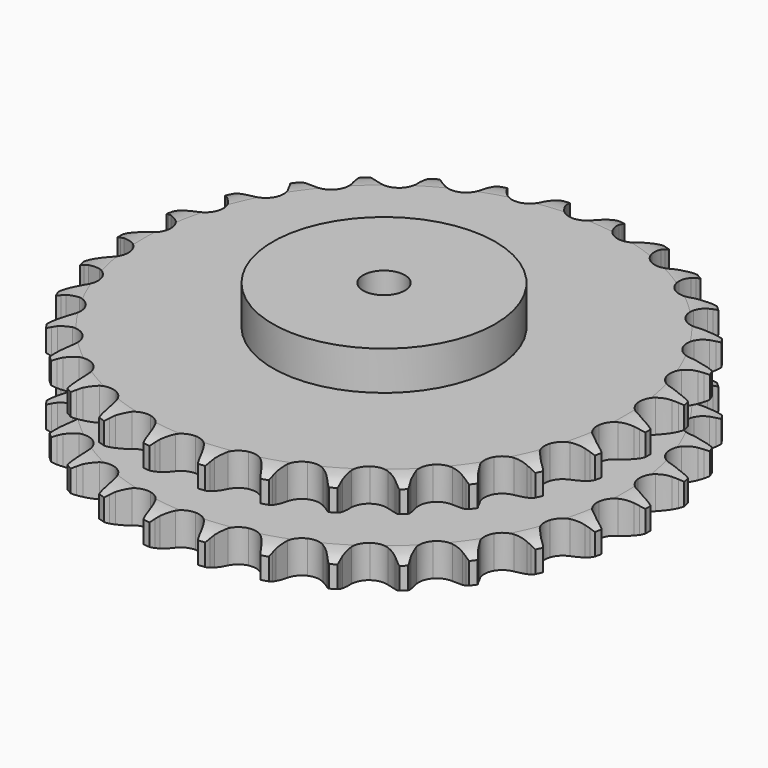
from build123d import *

# Parameters (mm, degrees)
PAD_DEPTH         = 72
SKETCH001_R       = 80
PAD001_DEPTH      = 100
SKETCH002_R       = 15
POCKET_DEPTH      = 0.001
POCKET_DEPTH_BACK = 100.001


with BuildPart() as part:
    # Sprocket → Pad (new body)
    with BuildSketch(Plane.XY):
        with BuildLine():
            ThreePointArc((-20.26254, 192.785193), (-17.773616, 189.567988), (-15.959522, 185.927353))
            Line((-15.959522, 185.927353), (-14.720942, 182.678163))
            ThreePointArc((-14.720942, 182.678163), (-12.759195, 178.45194), (-10.223812, 174.542816))
            ThreePointArc((-10.223812, 174.542816), (-5.712046, 170.790419), (0, 169.445411))
            ThreePointArc((0, 169.445411), (5.712046, 170.790419), (10.223812, 174.542816))
            ThreePointArc((10.223812, 174.542816), (12.759195, 178.45194), (14.720942, 182.678163))
            Line((14.720942, 182.678163), (15.959522, 185.927353))
            ThreePointArc((15.959522, 185.927353), (17.773616, 189.567988), (20.26254, 192.785193))
            ThreePointArc((20.26254, 192.785193), (22.028181, 189.120815), (23.045702, 185.182566))
            Line((23.045702, 185.182566), (23.581671, 181.746862))
            ThreePointArc((23.581671, 181.746862), (24.621869, 177.205122), (26.289094, 172.854287))
            ThreePointArc((26.289094, 172.854287), (29.922101, 168.24584), (35.229682, 165.742622))
            ThreePointArc((35.229682, 165.742622), (41.096549, 165.870638), (46.289889, 168.602986))
            Line((46.289889, 168.602986), (52.38018, 175.62555))
            ThreePointArc((52.38018, 175.62555), (53.285355, 177.110668), (54.267238, 178.546223))
            ThreePointArc((54.267238, 178.546223), (56.79862, 181.73013), (59.902051, 184.359555))
            ThreePointArc((59.902051, 184.359555), (60.867241, 180.408155), (61.043719, 176.344411))
            Line((61.043719, 176.344411), (60.853653, 172.872352))
            ThreePointArc((60.853653, 172.872352), (60.926838, 168.213591), (61.653042, 163.611196))
            ThreePointArc((61.653042, 163.611196), (64.248508, 158.34811), (68.919658, 154.796086))
            ThreePointArc((68.919658, 154.796086), (74.684935, 153.701513), (80.332876, 155.294397))
            Line((80.332876, 155.294397), (87.750152, 160.897259))
            ThreePointArc((87.750152, 160.897259), (88.94432, 162.161727), (90.203216, 163.361766))
            ThreePointArc((90.203216, 163.361766), (93.341253, 165.949793), (96.923554, 167.87652))
            ThreePointArc((96.923554, 167.87652), (97.04611, 163.810793), (96.373832, 159.79916))
            Line((96.373832, 159.79916), (95.466037, 156.442491))
            ThreePointArc((95.466037, 156.442491), (94.569013, 151.870318), (94.322455, 147.21751))
            ThreePointArc((94.322455, 147.21751), (95.766947, 141.529808), (99.597514, 137.084217))
            ThreePointArc((99.597514, 137.084217), (105.009232, 134.814895), (110.864931, 135.198698))
            Line((110.864931, 135.198698), (119.285022, 139.136985))
            ThreePointArc((119.285022, 139.136985), (120.715992, 140.12554), (122.196881, 141.037617))
            ThreePointArc((122.196881, 141.037617), (125.804425, 142.916655), (129.709033, 144.056475))
            ThreePointArc((129.709033, 144.056475), (128.983599, 140.054113), (127.491946, 136.269919))
            Line((127.491946, 136.269919), (125.906098, 133.175342))
            ThreePointArc((125.906098, 133.175342), (124.078068, 128.889584), (122.869525, 124.389713))
            ThreePointArc((122.869525, 124.389713), (123.099912, 118.525974), (125.92248, 113.381111))
            ThreePointArc((125.92248, 113.381111), (130.744121, 110.036219), (136.551656, 109.194167))
            Line((136.551656, 109.194167), (145.606564, 111.295758))
            ThreePointArc((145.606564, 111.295758), (147.211796, 111.965195), (148.849955, 112.549446))
            ThreePointArc((148.849955, 112.549446), (152.76934, 113.637372), (156.825605, 113.940471))
            ThreePointArc((156.825605, 113.940471), (155.283885, 110.176397), (153.03805, 106.785028))
            Line((153.03805, 106.785028), (150.843458, 104.087791))
            ThreePointArc((150.843458, 104.087791), (148.164316, 100.275757), (146.046606, 96.125489))
            ThreePointArc((146.046606, 96.125489), (145.052819, 90.341987), (146.744031, 84.722706))
            ThreePointArc((146.744031, 84.722706), (150.764865, 80.448433), (156.270419, 78.417327))
            Line((156.270419, 78.417327), (165.564401, 78.590371))
            ThreePointArc((165.564401, 78.590371), (167.273738, 78.911433), (168.997572, 79.142325))
            ThreePointArc((168.997572, 79.142325), (173.057501, 79.391591), (177.088145, 78.844722))
            ThreePointArc((177.088145, 78.844722), (174.797521, 75.483443), (171.895657, 72.633119))
            Line((171.895657, 72.633119), (169.188236, 70.451105))
            ThreePointArc((169.188236, 70.451105), (165.775072, 67.279397), (162.840751, 63.66012))
            ThreePointArc((162.840751, 63.66012), (160.666222, 58.209621), (161.152162, 52.361512))
            ThreePointArc((161.152162, 52.361512), (164.19646, 47.344664), (169.159414, 44.213273))
            Line((169.159414, 44.213273), (178.286278, 42.450209))
            ThreePointArc((178.286278, 42.450209), (180.025015, 42.408863), (181.759184, 42.276304))
            ThreePointArc((181.759184, 42.276304), (185.782219, 41.676017), (189.611084, 40.30308))
            ThreePointArc((189.611084, 40.30308), (186.671666, 37.4915), (183.240599, 35.306795))
            Line((183.240599, 35.306795), (180.138675, 33.735367))
            ThreePointArc((180.138675, 33.735367), (176.140662, 31.342606), (172.517973, 28.412498))
            ThreePointArc((172.517973, 28.412498), (169.25774, 23.533215), (168.517171, 17.711868))
            ThreePointArc((168.517171, 17.711868), (170.451883, 12.171705), (174.655331, 8.076887))
            Line((174.655331, 8.076887), (183.21619, 4.454768))
            ThreePointArc((183.21619, 4.454768), (184.908335, 4.052823), (186.577048, 3.562606))
            ThreePointArc((186.577048, 3.562606), (190.387363, 2.139), (193.847108, 0))
            ThreePointArc((193.847108, 0), (190.387363, -2.139), (186.577048, -3.562606))
            Line((186.577048, -3.562606), (183.21619, -4.454768))
            ThreePointArc((183.21619, -4.454768), (178.80806, -5.964008), (174.655331, -8.076887))
            ThreePointArc((174.655331, -8.076887), (170.451883, -12.171705), (168.517171, -17.711868))
            ThreePointArc((168.517171, -17.711868), (169.25774, -23.533215), (172.517973, -28.412498))
            Line((172.517973, -28.412498), (180.138675, -33.735367))
            ThreePointArc((180.138675, -33.735367), (181.710273, -34.480346), (183.240599, -35.306795))
            ThreePointArc((183.240599, -35.306795), (186.671666, -37.4915), (189.611084, -40.30308))
            ThreePointArc((189.611084, -40.30308), (185.782219, -41.676017), (181.759184, -42.276304))
            Line((181.759184, -42.276304), (178.286278, -42.450209))
            ThreePointArc((178.286278, -42.450209), (173.660688, -43.009967), (169.159414, -44.213273))
            ThreePointArc((169.159414, -44.213273), (164.19646, -47.344664), (161.152162, -52.361512))
            ThreePointArc((161.152162, -52.361512), (160.666222, -58.209621), (162.840751, -63.66012))
            Line((162.840751, -63.66012), (169.188236, -70.451105))
            ThreePointArc((169.188236, -70.451105), (170.570601, -71.506558), (171.895657, -72.633119))
            ThreePointArc((171.895657, -72.633119), (174.797521, -75.483443), (177.088145, -78.844722))
            ThreePointArc((177.088145, -78.844722), (173.057501, -79.391591), (168.997572, -79.142325))
            Line((168.997572, -79.142325), (165.564401, -78.590371))
            ThreePointArc((165.564401, -78.590371), (160.92351, -78.176183), (156.270419, -78.417327))
            ThreePointArc((156.270419, -78.417327), (150.764865, -80.448433), (146.744031, -84.722706))
            ThreePointArc((146.744031, -84.722706), (145.052819, -90.341987), (146.046606, -96.125489))
            Line((146.046606, -96.125489), (150.843458, -104.087791))
            ThreePointArc((150.843458, -104.087791), (151.976175, -105.40759), (153.03805, -106.785028))
            ThreePointArc((153.03805, -106.785028), (155.283885, -110.176397), (156.825605, -113.940471))
            ThreePointArc((156.825605, -113.940471), (152.76934, -113.637372), (148.849955, -112.549446))
            Line((148.849955, -112.549446), (145.606564, -111.295758))
            ThreePointArc((145.606564, -111.295758), (141.153203, -109.925725), (136.551656, -109.194167))
            ThreePointArc((136.551656, -109.194167), (130.744121, -110.036219), (125.92248, -113.381111))
            ThreePointArc((125.92248, -113.381111), (123.099912, -118.525974), (122.869525, -124.389713))
            Line((122.869525, -124.389713), (125.906098, -133.175342))
            ThreePointArc((125.906098, -133.175342), (126.73966, -134.701805), (127.491946, -136.269919))
            ThreePointArc((127.491946, -136.269919), (128.983599, -140.054113), (129.709033, -144.056475))
            ThreePointArc((129.709033, -144.056475), (125.804425, -142.916655), (122.196881, -141.037617))
            Line((122.196881, -141.037617), (119.285022, -139.136985))
            ThreePointArc((119.285022, -139.136985), (115.213824, -136.870985), (110.864931, -135.198698))
            ThreePointArc((110.864931, -135.198698), (105.009232, -134.814895), (99.597514, -137.084217))
            ThreePointArc((99.597514, -137.084217), (95.766947, -141.529808), (94.322455, -147.21751))
            Line((94.322455, -147.21751), (95.466037, -156.442491))
            ThreePointArc((95.466037, -156.442491), (95.964015, -158.108904), (96.373832, -159.79916))
            ThreePointArc((96.373832, -159.79916), (97.04611, -163.810793), (96.923554, -167.87652))
            ThreePointArc((96.923554, -167.87652), (93.341253, -165.949793), (90.203216, -163.361766))
            Line((90.203216, -163.361766), (87.750152, -160.897259))
            ThreePointArc((87.750152, -160.897259), (84.239047, -157.834327), (80.332876, -155.294397))
            ThreePointArc((80.332876, -155.294397), (74.684935, -153.701513), (68.919658, -154.796086))
            ThreePointArc((68.919658, -154.796086), (64.248508, -158.34811), (61.653042, -163.611196))
            Line((61.653042, -163.611196), (60.853653, -172.872352))
            ThreePointArc((60.853653, -172.872352), (60.994281, -174.605886), (61.043719, -176.344411))
            ThreePointArc((61.043719, -176.344411), (60.867241, -180.408155), (59.902051, -184.359555))
            ThreePointArc((59.902051, -184.359555), (56.79862, -181.73013), (54.267238, -178.546223))
            Line((54.267238, -178.546223), (52.38018, -175.62555))
            ThreePointArc((52.38018, -175.62555), (49.58262, -171.899551), (46.289889, -168.602986))
            ThreePointArc((46.289889, -168.602986), (41.096549, -165.870638), (35.229682, -165.742622))
            ThreePointArc((35.229682, -165.742622), (29.922101, -168.24584), (26.289094, -172.854287))
            Line((26.289094, -172.854287), (23.581671, -181.746862))
            ThreePointArc((23.581671, -181.746862), (23.358805, -183.471752), (23.045702, -185.182566))
            ThreePointArc((23.045702, -185.182566), (22.028181, -189.120815), (20.26254, -192.785193))
            ThreePointArc((20.26254, -192.785193), (17.773616, -189.567988), (15.959522, -185.927353))
            Line((15.959522, -185.927353), (14.720942, -182.678163))
            ThreePointArc((14.720942, -182.678163), (12.759195, -178.45194), (10.223812, -174.542816))
            ThreePointArc((10.223812, -174.542816), (5.712046, -170.790419), (0, -169.445411))
            ThreePointArc((0, -169.445411), (-5.712046, -170.790419), (-10.223812, -174.542816))
            Line((-10.223812, -174.542816), (-14.720942, -182.678163))
            ThreePointArc((-14.720942, -182.678163), (-15.297563, -184.319023), (-15.959522, -185.927353))
            ThreePointArc((-15.959522, -185.927353), (-17.773616, -189.567988), (-20.26254, -192.785193))
            ThreePointArc((-20.26254, -192.785193), (-22.028181, -189.120815), (-23.045702, -185.182566))
            Line((-23.045702, -185.182566), (-23.581671, -181.746862))
            ThreePointArc((-23.581671, -181.746862), (-24.621869, -177.205122), (-26.289094, -172.854287))
            ThreePointArc((-26.289094, -172.854287), (-29.922101, -168.24584), (-35.229682, -165.742622))
            ThreePointArc((-35.229682, -165.742622), (-41.096549, -165.870638), (-46.289889, -168.602986))
            Line((-46.289889, -168.602986), (-52.38018, -175.62555))
            ThreePointArc((-52.38018, -175.62555), (-53.285355, -177.110668), (-54.267238, -178.546223))
            ThreePointArc((-54.267238, -178.546223), (-56.79862, -181.73013), (-59.902051, -184.359555))
            ThreePointArc((-59.902051, -184.359555), (-60.867241, -180.408155), (-61.043719, -176.344411))
            Line((-61.043719, -176.344411), (-60.853653, -172.872352))
            ThreePointArc((-60.853653, -172.872352), (-60.926838, -168.213591), (-61.653042, -163.611196))
            ThreePointArc((-61.653042, -163.611196), (-64.248508, -158.34811), (-68.919658, -154.796086))
            ThreePointArc((-68.919658, -154.796086), (-74.684935, -153.701513), (-80.332876, -155.294397))
            Line((-80.332876, -155.294397), (-87.750152, -160.897259))
            ThreePointArc((-87.750152, -160.897259), (-88.94432, -162.161727), (-90.203216, -163.361766))
            ThreePointArc((-90.203216, -163.361766), (-93.341253, -165.949793), (-96.923554, -167.87652))
            ThreePointArc((-96.923554, -167.87652), (-97.04611, -163.810793), (-96.373832, -159.79916))
            Line((-96.373832, -159.79916), (-95.466037, -156.442491))
            ThreePointArc((-95.466037, -156.442491), (-94.569013, -151.870318), (-94.322455, -147.21751))
            ThreePointArc((-94.322455, -147.21751), (-95.766947, -141.529808), (-99.597514, -137.084217))
            ThreePointArc((-99.597514, -137.084217), (-105.009232, -134.814895), (-110.864931, -135.198698))
            Line((-110.864931, -135.198698), (-119.285022, -139.136985))
            ThreePointArc((-119.285022, -139.136985), (-120.715992, -140.12554), (-122.196881, -141.037617))
            ThreePointArc((-122.196881, -141.037617), (-125.804425, -142.916655), (-129.709033, -144.056475))
            ThreePointArc((-129.709033, -144.056475), (-128.983599, -140.054113), (-127.491946, -136.269919))
            Line((-127.491946, -136.269919), (-125.906098, -133.175342))
            ThreePointArc((-125.906098, -133.175342), (-124.078068, -128.889584), (-122.869525, -124.389713))
            ThreePointArc((-122.869525, -124.389713), (-123.099912, -118.525974), (-125.92248, -113.381111))
            ThreePointArc((-125.92248, -113.381111), (-130.744121, -110.036219), (-136.551656, -109.194167))
            Line((-136.551656, -109.194167), (-145.606564, -111.295758))
            ThreePointArc((-145.606564, -111.295758), (-147.211796, -111.965195), (-148.849955, -112.549446))
            ThreePointArc((-148.849955, -112.549446), (-152.76934, -113.637372), (-156.825605, -113.940471))
            ThreePointArc((-156.825605, -113.940471), (-155.283885, -110.176397), (-153.03805, -106.785028))
            Line((-153.03805, -106.785028), (-150.843458, -104.087791))
            ThreePointArc((-150.843458, -104.087791), (-148.164316, -100.275757), (-146.046606, -96.125489))
            ThreePointArc((-146.046606, -96.125489), (-145.052819, -90.341987), (-146.744031, -84.722706))
            ThreePointArc((-146.744031, -84.722706), (-150.764865, -80.448433), (-156.270419, -78.417327))
            Line((-156.270419, -78.417327), (-165.564401, -78.590371))
            ThreePointArc((-165.564401, -78.590371), (-167.273738, -78.911433), (-168.997572, -79.142325))
            ThreePointArc((-168.997572, -79.142325), (-173.057501, -79.391591), (-177.088145, -78.844722))
            ThreePointArc((-177.088145, -78.844722), (-174.797521, -75.483443), (-171.895657, -72.633119))
            Line((-171.895657, -72.633119), (-169.188236, -70.451105))
            ThreePointArc((-169.188236, -70.451105), (-165.775072, -67.279397), (-162.840751, -63.66012))
            ThreePointArc((-162.840751, -63.66012), (-160.666222, -58.209621), (-161.152162, -52.361512))
            ThreePointArc((-161.152162, -52.361512), (-164.19646, -47.344664), (-169.159414, -44.213273))
            Line((-169.159414, -44.213273), (-178.286278, -42.450209))
            ThreePointArc((-178.286278, -42.450209), (-180.025015, -42.408863), (-181.759184, -42.276304))
            ThreePointArc((-181.759184, -42.276304), (-185.782219, -41.676017), (-189.611084, -40.30308))
            ThreePointArc((-189.611084, -40.30308), (-186.671666, -37.4915), (-183.240599, -35.306795))
            Line((-183.240599, -35.306795), (-180.138675, -33.735367))
            ThreePointArc((-180.138675, -33.735367), (-176.140662, -31.342606), (-172.517973, -28.412498))
            ThreePointArc((-172.517973, -28.412498), (-169.25774, -23.533215), (-168.517171, -17.711868))
            ThreePointArc((-168.517171, -17.711868), (-170.451883, -12.171705), (-174.655331, -8.076887))
            Line((-174.655331, -8.076887), (-183.21619, -4.454768))
            ThreePointArc((-183.21619, -4.454768), (-184.908335, -4.052823), (-186.577048, -3.562606))
            ThreePointArc((-186.577048, -3.562606), (-190.387363, -2.139), (-193.847108, 0))
            ThreePointArc((-193.847108, 0), (-190.387363, 2.139), (-186.577048, 3.562606))
            Line((-186.577048, 3.562606), (-183.21619, 4.454768))
            ThreePointArc((-183.21619, 4.454768), (-178.80806, 5.964008), (-174.655331, 8.076887))
            ThreePointArc((-174.655331, 8.076887), (-170.451883, 12.171705), (-168.517171, 17.711868))
            ThreePointArc((-168.517171, 17.711868), (-169.25774, 23.533215), (-172.517973, 28.412498))
            Line((-172.517973, 28.412498), (-180.138675, 33.735367))
            ThreePointArc((-180.138675, 33.735367), (-181.710273, 34.480346), (-183.240599, 35.306795))
            ThreePointArc((-183.240599, 35.306795), (-186.671666, 37.4915), (-189.611084, 40.30308))
            ThreePointArc((-189.611084, 40.30308), (-185.782219, 41.676017), (-181.759184, 42.276304))
            Line((-181.759184, 42.276304), (-178.286278, 42.450209))
            ThreePointArc((-178.286278, 42.450209), (-173.660688, 43.009967), (-169.159414, 44.213273))
            ThreePointArc((-169.159414, 44.213273), (-164.19646, 47.344664), (-161.152162, 52.361512))
            ThreePointArc((-161.152162, 52.361512), (-160.666222, 58.209621), (-162.840751, 63.66012))
            Line((-162.840751, 63.66012), (-169.188236, 70.451105))
            ThreePointArc((-169.188236, 70.451105), (-170.570601, 71.506558), (-171.895657, 72.633119))
            ThreePointArc((-171.895657, 72.633119), (-174.797521, 75.483443), (-177.088145, 78.844722))
            ThreePointArc((-177.088145, 78.844722), (-173.057501, 79.391591), (-168.997572, 79.142325))
            Line((-168.997572, 79.142325), (-165.564401, 78.590371))
            ThreePointArc((-165.564401, 78.590371), (-160.92351, 78.176183), (-156.270419, 78.417327))
            ThreePointArc((-156.270419, 78.417327), (-150.764865, 80.448433), (-146.744031, 84.722706))
            ThreePointArc((-146.744031, 84.722706), (-145.052819, 90.341987), (-146.046606, 96.125489))
            Line((-146.046606, 96.125489), (-150.843458, 104.087791))
            ThreePointArc((-150.843458, 104.087791), (-151.976175, 105.40759), (-153.03805, 106.785028))
            ThreePointArc((-153.03805, 106.785028), (-155.283885, 110.176397), (-156.825605, 113.940471))
            ThreePointArc((-156.825605, 113.940471), (-152.76934, 113.637372), (-148.849955, 112.549446))
            Line((-148.849955, 112.549446), (-145.606564, 111.295758))
            ThreePointArc((-145.606564, 111.295758), (-141.153203, 109.925725), (-136.551656, 109.194167))
            ThreePointArc((-136.551656, 109.194167), (-130.744121, 110.036219), (-125.92248, 113.381111))
            ThreePointArc((-125.92248, 113.381111), (-123.099912, 118.525974), (-122.869525, 124.389713))
            Line((-122.869525, 124.389713), (-125.906098, 133.175342))
            ThreePointArc((-125.906098, 133.175342), (-126.73966, 134.701805), (-127.491946, 136.269919))
            ThreePointArc((-127.491946, 136.269919), (-128.983599, 140.054113), (-129.709033, 144.056475))
            ThreePointArc((-129.709033, 144.056475), (-125.804425, 142.916655), (-122.196881, 141.037617))
            Line((-122.196881, 141.037617), (-119.285022, 139.136985))
            ThreePointArc((-119.285022, 139.136985), (-115.213824, 136.870985), (-110.864931, 135.198698))
            ThreePointArc((-110.864931, 135.198698), (-105.009232, 134.814895), (-99.597514, 137.084217))
            ThreePointArc((-99.597514, 137.084217), (-95.766947, 141.529808), (-94.322455, 147.21751))
            Line((-94.322455, 147.21751), (-95.466037, 156.442491))
            ThreePointArc((-95.466037, 156.442491), (-95.964015, 158.108904), (-96.373832, 159.79916))
            ThreePointArc((-96.373832, 159.79916), (-97.04611, 163.810793), (-96.923554, 167.87652))
            ThreePointArc((-96.923554, 167.87652), (-93.341253, 165.949793), (-90.203216, 163.361766))
            Line((-90.203216, 163.361766), (-87.750152, 160.897259))
            ThreePointArc((-87.750152, 160.897259), (-84.239047, 157.834327), (-80.332876, 155.294397))
            ThreePointArc((-80.332876, 155.294397), (-74.684935, 153.701513), (-68.919658, 154.796086))
            ThreePointArc((-68.919658, 154.796086), (-64.248508, 158.34811), (-61.653042, 163.611196))
            Line((-61.653042, 163.611196), (-60.853653, 172.872352))
            ThreePointArc((-60.853653, 172.872352), (-60.994281, 174.605886), (-61.043719, 176.344411))
            ThreePointArc((-61.043719, 176.344411), (-60.867241, 180.408155), (-59.902051, 184.359555))
            ThreePointArc((-59.902051, 184.359555), (-56.79862, 181.73013), (-54.267238, 178.546223))
            Line((-54.267238, 178.546223), (-52.38018, 175.62555))
            ThreePointArc((-52.38018, 175.62555), (-49.58262, 171.899551), (-46.289889, 168.602986))
            ThreePointArc((-46.289889, 168.602986), (-41.096549, 165.870638), (-35.229682, 165.742622))
            ThreePointArc((-35.229682, 165.742622), (-29.922101, 168.24584), (-26.289094, 172.854287))
            Line((-26.289094, 172.854287), (-23.581671, 181.746862))
            ThreePointArc((-23.581671, 181.746862), (-23.358805, 183.471752), (-23.045702, 185.182566))
            ThreePointArc((-23.045702, 185.182566), (-22.028181, 189.120815), (-20.26254, 192.785193))
        make_face()
    extrude(amount=PAD_DEPTH)

    # Sketch → Groove (revolve, cut)
    with BuildSketch(Plane.XZ):
        with BuildLine():
            ThreePointArc((172.779437, 0), (181.497235, 1.013516), (189.75, 4))
            Line((189.75, 4), (189.75, 19.6))
            ThreePointArc((189.75, 19.6), (181.497235, 22.586484), (172.779437, 23.6))
            Line((80, 23.6), (172.779437, 23.6))
            Line((80, 48.4), (80, 23.6))
            Line((172.779437, 48.4), (80, 48.4))
            ThreePointArc((172.779437, 48.4), (181.497235, 49.413516), (189.75, 52.4))
            Line((189.75, 52.4), (189.75, 68))
            ThreePointArc((189.75, 68), (181.497235, 70.986484), (172.779437, 72))
            Line((172.779437, 72), (199.75, 72))
            Line((199.75, 72), (199.75, 0))
            Line((172.779437, 0), (199.75, 0))
        make_face()
    revolve(axis=Axis((0, 0, 0), (0, 0, 1)), mode=Mode.SUBTRACT)

    # Sketch001 → Pad001 (join)
    with BuildSketch(Plane.XY):
        Circle(SKETCH001_R)
    extrude(amount=PAD001_DEPTH)

    # Sketch002 → Pocket (cut, two sides)
    with BuildSketch(Plane.XY) as pocket_sk:
        Circle(SKETCH002_R)
    extrude(amount=-POCKET_DEPTH, mode=Mode.SUBTRACT)
    extrude(pocket_sk.sketch, amount=POCKET_DEPTH_BACK, mode=Mode.SUBTRACT)


solid = part.part
